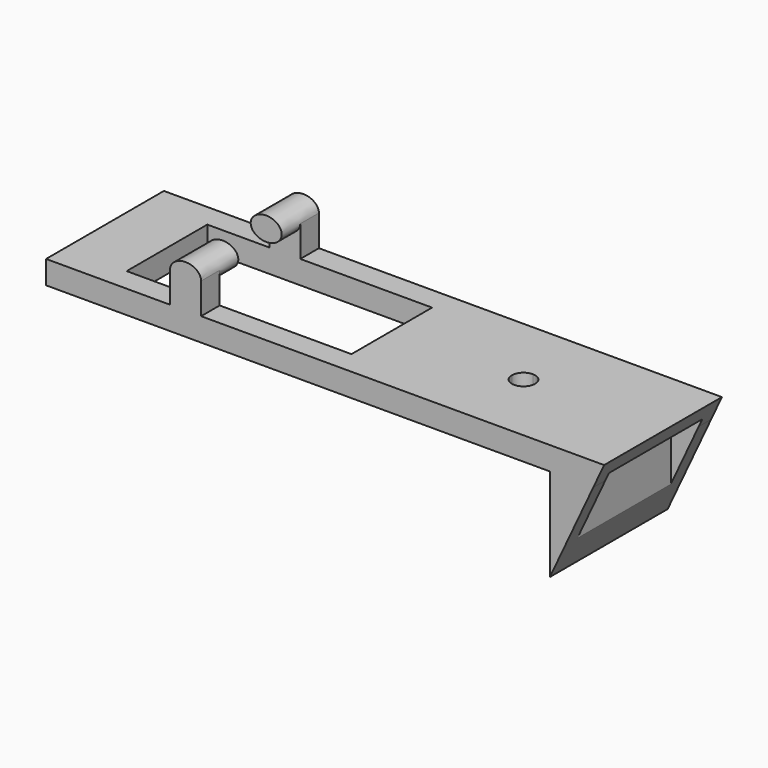
from build123d import *

# Parameters (mm, degrees)
F0_W      = 72
F0_H      = 3
F1_DEPTH  = 19
F2_W      = 29
F2_H      = 13
F3_DEPTH  = 12.5
F7_DEPTH  = 19
F8_DEPTH  = 20
F9_W      = 15.054653123
F9_H      = 17.4366760552
F10_DEPTH = 25
F12_DEPTH = 12.5
F14_DEPTH = 3
F15_DEPTH = 6
F17_DEPTH = 3
F18_DEPTH = 6


with BuildPart() as f1:
    # F0 (on Front) → F1 (new body)
    with BuildSketch(Plane.XZ):
        with Locations((2.1212100983, -1.5)):
            Rectangle(F0_W, F0_H)
    extrude(amount=F1_DEPTH)

    # F2 (on face) → F3 (cut, symmetric)
    with BuildSketch(Plane.XY):
        with Locations((-11.3787899017, -9.5)):
            Rectangle(F2_W, F2_H)
    extrude(amount=F3_DEPTH, both=True, mode=Mode.SUBTRACT)

    # F6 (on face) → F7 (join)
    with BuildSketch(Plane.XZ.offset(19)):
        Polygon((36.7209195002, -3), (38.1212100983, 0), (31.1197824776, 0), (31.1197824776, -3), align=None)
        Polygon((31.1197824776, -14.999945648), (36.7209195002, -3), (31.1197824776, -3), align=None)
    extrude(amount=-F7_DEPTH)

    # F6 (on face) → F8 (cut, symmetric)
    with BuildSketch(Plane.XZ.offset(19)):
        Polygon((38.1212100983, -3), (38.1212100983, 0), (36.7209195002, -3), align=None)
        Polygon((42.2334298491, 0), (38.1212100983, 0), (38.1212100983, -3), (36.7209195002, -3), (31.1197824776, -14.999945648), (42.2334298491, -15.8877465874), align=None)
    extrude(amount=F8_DEPTH, both=True, mode=Mode.SUBTRACT)

    # F9 (on offset) → F10 (cut)
    with BuildSketch(Plane.YZ.offset(33.1212100983)):
        with Locations((-9.5273265615, -10.7183380276)):
            Rectangle(F9_W, F9_H)
    extrude(amount=F10_DEPTH, mode=Mode.SUBTRACT)

    # F11 (on face) → F12 (cut, symmetric)
    with BuildSketch(Plane.XY):
        with BuildLine():
            Line((20.1212100983, -9.5), (20.1212100983, -8))
            ThreePointArc((20.1212100983, -8), (19.0605499265, -8.4393398282), (18.6212100983, -9.5))
            Line((18.6212100983, -9.5), (20.1212100983, -9.5))
        make_face()
        with BuildLine():
            ThreePointArc((21.6212100983, -9.5), (21.18187027, -8.4393398282), (20.1212100983, -8))
            Line((20.1212100983, -8), (20.1212100983, -9.5))
            Line((20.1212100983, -9.5), (20.1212100983, -11))
            ThreePointArc((20.1212100983, -11), (21.18187027, -10.5606601718), (21.6212100983, -9.5))
        make_face()
        with BuildLine():
            Line((20.1212100983, -9.5), (18.6212100983, -9.5))
            ThreePointArc((18.6212100983, -9.5), (19.0605499265, -10.5606601718), (20.1212100983, -11))
            Line((20.1212100983, -11), (20.1212100983, -9.5))
        make_face()
    extrude(amount=F12_DEPTH, both=True, mode=Mode.SUBTRACT)

    # F13 (on face) → F14 (join)
    with BuildSketch(Plane.XZ.offset(19)):
        with BuildLine():
            Line((-17.8787899017, 4), (-17.8787899017, 0))
            Line((-17.8787899017, 0), (-13.8787899017, 0))
            Line((-13.8787899017, 0), (-13.8787899017, 4))
            add(Edge.make_bspline(
                [(-17.8787899017, 4), (-17.8787899017, 2.5), (-15.8787899017, 2.5), (-13.8787899017, 2.5), (-13.8787899017, 4)],
                knots=[3.1415926536, 3.1415926536, 3.1415926536, 4.7123889804, 4.7123889804, 6.2831853072, 6.2831853072, 6.2831853072], degree=2, weights=[1, 0.7071067812, 1, 0.7071067812, 1]))
        make_face()
    extrude(amount=-F14_DEPTH)

    # F13 (on face) → F15 (join)
    with BuildSketch(Plane.XZ.offset(19)):
        with BuildLine():
            Line((-13.8787899017, 4), (-17.8787899017, 4))
            add(Edge.make_bspline(
                [(-17.8787899017, 4), (-17.8787899017, 2.5), (-15.8787899017, 2.5), (-13.8787899017, 2.5), (-13.8787899017, 4)],
                knots=[3.1415926536, 3.1415926536, 3.1415926536, 4.7123889804, 4.7123889804, 6.2831853072, 6.2831853072, 6.2831853072], degree=2, weights=[1, 0.7071067812, 1, 0.7071067812, 1]))
        make_face()
        with BuildLine():
            add(Edge.make_bspline(
                [(-13.8787899017, 4), (-13.8787899017, 5.5), (-15.8787899017, 5.5), (-17.8787899017, 5.5), (-17.8787899017, 4)],
                knots=[0, 0, 0, 1.5707963268, 1.5707963268, 3.1415926536, 3.1415926536, 3.1415926536], degree=2, weights=[1, 0.7071067812, 1, 0.7071067812, 1]))
            Line((-17.8787899017, 4), (-13.8787899017, 4))
        make_face()
    extrude(amount=-F15_DEPTH)

    # F16 (on face) → F17 (join)
    with BuildSketch(Plane(origin=(0, 0, 0), x_dir=(-1, 0, 0), z_dir=(0, 1, 0))):
        with BuildLine():
            Line((13.8787899017, 4), (13.8787899017, 0))
            Line((13.8787899017, 0), (17.8787899017, 0))
            Line((17.8787899017, 0), (17.8787899017, 4))
            add(Edge.make_bspline(
                [(13.8787899017, 4), (13.8787899017, 2.5), (15.8787899017, 2.5), (17.8787899017, 2.5), (17.8787899017, 4)],
                knots=[3.1415926536, 3.1415926536, 3.1415926536, 4.7123889804, 4.7123889804, 6.2831853072, 6.2831853072, 6.2831853072], degree=2, weights=[1, 0.7071067812, 1, 0.7071067812, 1]))
        make_face()
    extrude(amount=-F17_DEPTH)

    # F16 (on face) → F18 (join)
    with BuildSketch(Plane(origin=(0, 0, 0), x_dir=(-1, 0, 0), z_dir=(0, 1, 0))):
        with BuildLine():
            add(Edge.make_bspline(
                [(17.8787899017, 4), (17.8787899017, 5.5), (15.8787899017, 5.5), (13.8787899017, 5.5), (13.8787899017, 4)],
                knots=[0, 0, 0, 1.5707963268, 1.5707963268, 3.1415926536, 3.1415926536, 3.1415926536], degree=2, weights=[1, 0.7071067812, 1, 0.7071067812, 1]))
            add(Edge.make_bspline(
                [(13.8787899017, 4), (13.8787899017, 2.5), (15.8787899017, 2.5), (17.8787899017, 2.5), (17.8787899017, 4)],
                knots=[3.1415926536, 3.1415926536, 3.1415926536, 4.7123889804, 4.7123889804, 6.2831853072, 6.2831853072, 6.2831853072], degree=2, weights=[1, 0.7071067812, 1, 0.7071067812, 1]))
        make_face()
    extrude(amount=-F18_DEPTH)


solid = f1.part
